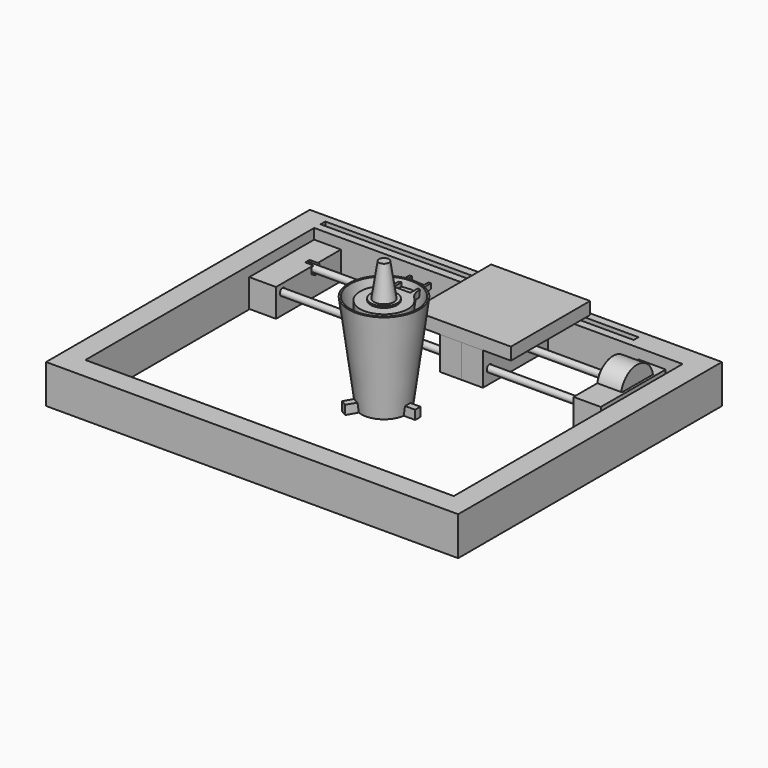
from build123d import *

# Parameters (mm, degrees)
SKETCH001_R          = 3.9
PAD_DEPTH            = 11
PAD001_DEPTH         = 13
SKETCH004_W          = 27.5
SKETCH004_H          = 20
POCKET_DEPTH         = 4.5
SKETCH005_R          = 3
HOLE_DEPTH           = 25
POCKET001_DEPTH      = 42.001
POCKET001_DEPTH_BACK = -16.001
SKETCH007_W          = 500
SKETCH007_H          = 400
SKETCH007_W_2        = 447
SKETCH007_H_2        = 347
PAD002_DEPTH         = 47
PAD003_DEPTH         = 380
PAD003_FACE11_W      = 7.3
PAD003_FACE11_H      = 380
POCKET002_DEPTH      = 5
SKETCH009_R          = 24.5
PAD004_DEPTH         = 29
SKETCH011_R          = 2.5
PAD005_DEPTH         = 0.8
SKETCH013_W          = 100
SKETCH013_H          = 34
PAD007_DEPTH         = 33
SKETCH014_R          = 24.5
POCKET003_DEPTH      = 30
SKETCH015_R          = 4.05
POCKET004_DEPTH      = 25
SKETCH012_R          = 4
PAD006_DEPTH         = 413
SKETCH016_W          = 100
SKETCH016_H          = 34
PAD008_DEPTH         = 33
SKETCH017_R          = 4.05
POCKET005_DEPTH      = 35
POCKET006_DEPTH      = 10
SKETCH019_W          = 100
SKETCH019_H          = 40
SKETCH019_R          = 4.05
PAD009_DEPTH         = 26
POCKET007_DEPTH      = 15
SKETCH021_R          = 4.05
POCKET008_DEPTH      = 30
POCKET009_DEPTH      = 6.1
SKETCH024_W          = 100
SKETCH024_H          = 40
PAD010_DEPTH         = 26
SKETCH026_R          = 4.05
POCKET010_DEPTH      = 27
SKETCH027_R          = 4.05
POCKET011_DEPTH      = 27
POCKET012_DEPTH      = 15
POCKET013_DEPTH      = 6.1
SKETCH032_W          = 120
SKETCH032_H          = 120
PAD012_DEPTH         = 15
SKETCH033_R          = 4
PAD011_DEPTH         = 356


with BuildPart() as obj1:
    # Sketch → Revolution (revolve)
    with BuildSketch(Plane.YZ):
        Polygon((0, 0), (27.5, 0), (43, 117), (40.982526, 117), (25.747483, 2), (0, 2), align=None)
    revolve(axis=Axis((0, 0, 0), (0, 0, 1)))


with BuildPart() as obj2:
    # Sketch001 → Pad (new body)
    with BuildSketch(Plane.XY):
        with BuildLine():
            ThreePointArc((-6.98582, 4.099795), (-8.1, 0), (-6.98582, -4.099795))
            Line((-6.98582, -4.099795), (-23.98582, -33.544659))
            Line((-23.98582, -33.544659), (-17.057617, -37.544659))
            Line((-17.057617, -37.544659), (-0.057617, -8.099795))
            ThreePointArc((-0.057617, -8.099795), (4.05, -7.014806), (7.043437, -4))
            Line((41.043437, -4), (7.043437, -4))
            Line((41.043437, 4), (41.043437, -4))
            Line((7.043437, 4), (41.043437, 4))
            ThreePointArc((7.043437, 4), (4.05, 7.014806), (-0.057617, 8.099795))
            Line((-17.057617, 37.544659), (-0.057617, 8.099795))
            Line((-23.98582, 33.544659), (-17.057617, 37.544659))
            Line((-6.98582, 4.099795), (-23.98582, 33.544659))
        make_face()
        Circle(SKETCH001_R, mode=Mode.SUBTRACT)
    extrude(amount=PAD_DEPTH)


with BuildPart() as obj3:
    # Sketch002 → Revolution001 (revolve)
    with BuildSketch(Plane.YZ):
        Polygon((0, 11), (9, 11), (20, 89), (28, 89), (28, 100), (16, 100), (16, 115), (12, 115), (6, 155), (0, 155), align=None)
    revolve(axis=Axis((0, 0, 0), (0, 0, 1)))


with BuildPart() as obj4:
    # Sketch003 (on CopyRevolution) → Pad001 (new body)
    with BuildSketch(Plane(origin=(0, 0, 100), x_dir=(0, -1, 0), z_dir=(0, 0, 1))):
        with BuildLine():
            Line((-55, -13), (-55, 13))
            Line((-55, 13), (-37, 13))
            ThreePointArc((-37, 13), (-28.354779, 14.789176), (-21.129846, 19.862769))
            ThreePointArc((-21.129846, -19.862769), (29, 0), (-21.129846, 19.862769))
            ThreePointArc((-21.129846, -19.862769), (-28.354779, -14.789176), (-37, -13))
            Line((-37, -13), (-55, -13))
        make_face()
    extrude(amount=PAD001_DEPTH)

    # Sketch004 (on Face8 of Pad001) → Pocket (cut)
    with BuildSketch(Plane(origin=(0, 0, 113), x_dir=(0, -1, 0), z_dir=(0, 0, 1))):
        with Locations((-41.25, 0)):
            Rectangle(SKETCH004_W, SKETCH004_H)
    extrude(amount=-POCKET_DEPTH, mode=Mode.SUBTRACT)

    # Sketch005 (on Face12 of Pocket) → Hole (cut)
    with BuildSketch(Plane(origin=(0, 0, 108.5), x_dir=(0, -1, 0), z_dir=(0, 0, 1))):
        with Locations((-45.05, 0)):
            Circle(SKETCH005_R)
    extrude(amount=-HOLE_DEPTH, mode=Mode.SUBTRACT)

    # Sketch006 (on Face8 of Hole) → Pocket001 (cut, two sides)
    with BuildSketch(Plane.YZ.offset(13)) as pocket001_sk:
        Polygon((55, 107), (49, 105), (30.5, 105), (27.5, 100), (55, 100), align=None)
    extrude(amount=-POCKET001_DEPTH, mode=Mode.SUBTRACT)
    extrude(pocket001_sk.sketch, amount=-POCKET001_DEPTH_BACK, mode=Mode.SUBTRACT)


with BuildPart() as obj5:
    # Sketch007 → Pad002 (new body)
    with BuildSketch(Plane.XY):
        Rectangle(SKETCH007_W, SKETCH007_H)
        Rectangle(SKETCH007_W_2, SKETCH007_H_2, mode=Mode.SUBTRACT)
    extrude(amount=PAD002_DEPTH)

    # Sketch008 (on Face5 of Pad002) → Pad003 (join)
    with BuildSketch(Plane.YZ.offset(-223.5)):
        Polygon((183.1, 42), (183.1, 47), (190.4, 47), (190.4, 42), (189.4, 42), (189.4, 46), (184.1, 46), (184.1, 42), align=None)
    extrude(amount=PAD003_DEPTH)

    # Pad003 Face11 → Pocket002 (cut)
    with BuildSketch(Plane(origin=(-33.5, 186.75, 47), x_dir=(0, 1, 0), z_dir=(0, 0, 1))):
        Rectangle(PAD003_FACE11_W, PAD003_FACE11_H)
    extrude(amount=-POCKET002_DEPTH, mode=Mode.SUBTRACT)


with BuildPart() as motor:
    # Sketch009 → Pad004 (new body)
    with BuildSketch(Plane.YZ):
        Circle(SKETCH009_R)
    extrude(amount=PAD004_DEPTH)

    # Sketch010 → Revolution002 (revolve)
    with BuildSketch(Plane.XY):
        Polygon((-2, 5), (-2, 2), (-3, 2), (-3, 3.8), (-13, 3.8), (-13, 0), (0, 0), (0, 5), align=None)
    revolve(axis=Axis((0, 0, 0), (1, 0, 0)))

    # Sketch011 → Pad005 (join)
    with BuildSketch(Plane.YZ):
        with BuildLine():
            ThreePointArc((-28.999999, 3.5), (-32.257305, 1.28061), (-31.383621, -2.56288))
            Line((-31.383621, -2.56288), (-15.834049, -17.024847))
            ThreePointArc((-15.834049, -17.024847), (2e-06, -23.25), (15.834052, -17.024844))
            Line((31.383621, -2.56288), (15.834052, -17.024844))
            ThreePointArc((31.383621, -2.56288), (32.257306, 1.280609), (29, 3.5))
            Line((22.985049, 3.5), (29, 3.5))
            ThreePointArc((22.985049, 3.5), (0, 23.25), (-22.985049, 3.5))
            Line((-28.999999, 3.5), (-22.985049, 3.5))
        make_face()
        with Locations((-29, 0)):
            Circle(SKETCH011_R, mode=Mode.SUBTRACT)
        with Locations((29, 0)):
            Circle(SKETCH011_R, mode=Mode.SUBTRACT)
    extrude(amount=-PAD005_DEPTH)


with BuildPart() as motor_1:
    # Body005 placement: moved
    add(motor.part.moved(Location((170, 135, 29.5))))


with BuildPart() as halterung:
    # Sketch013 (on CopyPad) → Pad007 (new body)
    with BuildSketch(Plane.YZ):
        with Locations((-10, -12)):
            Rectangle(SKETCH013_W, SKETCH013_H)
    extrude(amount=PAD007_DEPTH)

    # Sketch014 (on Face5 of Pad007) → Pocket003 (cut)
    with BuildSketch(Plane(origin=(0, 0, 0), x_dir=(0, 1, 0), z_dir=(-1, 0, 0))):
        Circle(SKETCH014_R)
    extrude(amount=-POCKET003_DEPTH, mode=Mode.SUBTRACT)

    # Sketch015 (on Face4 of Pocket003) → Pocket004 (cut)
    with BuildSketch(Plane(origin=(0, 0, 0), x_dir=(0, 1, 0), z_dir=(-1, 0, 0))):
        with Locations((-50, 4)):
            Circle(SKETCH015_R)
    extrude(amount=-POCKET004_DEPTH, mode=Mode.SUBTRACT)


with BuildPart() as halterung_1:
    # Body006 placement: moved
    add(halterung.part.moved(Location((170, 135, 29.5))))


with BuildPart() as obj6:
    # Sketch012 → Pad006 (new body)
    with BuildSketch(Plane.YZ):
        Circle(SKETCH012_R)
    extrude(amount=PAD006_DEPTH)


with BuildPart() as obj6_1:
    # Body007 placement: moved
    add(obj6.part.moved(Location((-221, 85, 25))))


with BuildPart() as body008:
    # Sketch016 → Pad008 (new body)
    with BuildSketch(Plane.YZ):
        with Locations((-10, -12)):
            Rectangle(SKETCH016_W, SKETCH016_H)
    extrude(amount=PAD008_DEPTH)

    # Sketch017 (on Face6 of Pad008) → Pocket005 (cut)
    with BuildSketch(Plane.YZ.offset(33)):
        with Locations((-50, -4)):
            Circle(SKETCH017_R)
    extrude(amount=-POCKET005_DEPTH, mode=Mode.SUBTRACT)

    # Sketch018 (on Face6 of Pad008) → Pocket006 (cut)
    with BuildSketch(Plane.YZ.offset(33)):
        Polygon((6, -3.464102), (6, 3.464102), (0, 6.928203), (-6, 3.464102), (-6, -3.464102), (0, -6.928203), align=None)
    extrude(amount=-POCKET006_DEPTH, mode=Mode.SUBTRACT)


with BuildPart() as body008_1:
    # Body008 placement: moved
    add(body008.part.moved(Location((-224, 135, 29.5))))


with BuildPart() as body009:
    # Sketch019 → Pad009 (new body)
    with BuildSketch(Plane.YZ):
        with Locations((-10, -1)):
            Rectangle(SKETCH019_W, SKETCH019_H)
        Circle(SKETCH019_R, mode=Mode.SUBTRACT)
        with Locations((-50, -4)):
            Circle(SKETCH019_R, mode=Mode.SUBTRACT)
    extrude(amount=-PAD009_DEPTH)

    # Sketch020 (on Face8 of Pad009) → Pocket007 (cut)
    with BuildSketch(Plane(origin=(-26, 0, 0), x_dir=(0, 1, 0), z_dir=(-1, 0, 0))):
        Polygon((6, -3.464102), (6, 3.464102), (0, 6.928203), (-6, 3.464102), (-6, -3.464102), (0, -6.928203), align=None)
    extrude(amount=-POCKET007_DEPTH, mode=Mode.SUBTRACT)

    # Sketch021 (on Face5 of Pocket007) → Pocket008 (cut)
    with BuildSketch(Plane(origin=(-26, 0, 0), x_dir=(0, 1, 0), z_dir=(-1, 0, 0))):
        with Locations((-50, 4)):
            Circle(SKETCH021_R)
    extrude(amount=-POCKET008_DEPTH, mode=Mode.SUBTRACT)

    # Sketch025 (on Face5 of Pocket008) → Pocket009 (cut)
    with BuildSketch(Plane(origin=(-26, 0, 0), x_dir=(0, 1, 0), z_dir=(-1, 0, 0))):
        Polygon((-56, 7.464102), (-56, 0.535898), (-50, -2.928203), (-44, 0.535898), (-44, 7.464102), (-50, 10.928203), align=None)
    extrude(amount=-POCKET009_DEPTH, mode=Mode.SUBTRACT)


with BuildPart() as body009_1:
    # Body009 placement: moved
    add(body009.part.moved(Location((60, 135, 29.5))))


with BuildPart() as body010:
    # Sketch024 → Pad010 (new body)
    with BuildSketch(Plane(origin=(-26, 0, 0), x_dir=(0, 1, 0), z_dir=(-1, 0, 0))):
        with Locations((-10, 1)):
            Rectangle(SKETCH024_W, SKETCH024_H)
    extrude(amount=PAD010_DEPTH)

    # Sketch026 (on Face5 of Pad010) → Pocket010 (cut)
    with BuildSketch(Plane.YZ.offset(-26)):
        Circle(SKETCH026_R)
    extrude(amount=-POCKET010_DEPTH, mode=Mode.SUBTRACT)

    # Sketch027 (on Face4 of Pocket010) → Pocket011 (cut)
    with BuildSketch(Plane.YZ.offset(-26)):
        with Locations((-50, -4)):
            Circle(SKETCH027_R)
    extrude(amount=-POCKET011_DEPTH, mode=Mode.SUBTRACT)

    # Sketch028 (on Face4 of Pocket011) → Pocket012 (cut)
    with BuildSketch(Plane.YZ.offset(-26)):
        Polygon((6, -3.464102), (6, 3.464102), (0, 6.928203), (-6, 3.464102), (-6, -3.464102), (0, -6.928203), align=None)
    extrude(amount=-POCKET012_DEPTH, mode=Mode.SUBTRACT)

    # Sketch029 (on Face4 of Pocket012) → Pocket013 (cut)
    with BuildSketch(Plane.YZ.offset(-26)):
        Polygon((-44, -7.464102), (-44, -0.535898), (-50, 2.928203), (-56, -0.535898), (-56, -7.464102), (-50, -10.928203), align=None)
    extrude(amount=-POCKET013_DEPTH, mode=Mode.SUBTRACT)


with BuildPart() as body010_1:
    # Body010 placement: moved
    add(body010.part.moved(Location((60, 135, 29.5))))


with BuildPart() as obj7:
    # Sketch032 (on CopyPocket) → Pad012 (new body)
    with BuildSketch(Plane(origin=(0, 0, 19), x_dir=(0, -1, 0), z_dir=(0, 0, 1))):
        Rectangle(SKETCH032_W, SKETCH032_H)
    extrude(amount=PAD012_DEPTH)


with BuildPart() as obj7_1:
    # Body011 placement: moved
    add(obj7.part.moved(Location((34, 135, 29.5))))


with BuildPart() as gewindestange:
    # Sketch033 → Pad011 (new body)
    with BuildSketch(Plane.YZ):
        Circle(SKETCH033_R)
    extrude(amount=PAD011_DEPTH)


with BuildPart() as gewindestange_1:
    # Body012 placement: moved
    add(gewindestange.part.moved(Location((-200, 135, 29.5))))


solid = Compound([obj1.part, obj2.part, obj3.part, obj4.part, obj5.part, motor_1.part, halterung_1.part, obj6_1.part, body008_1.part, body009_1.part, body010_1.part, obj7_1.part, gewindestange_1.part])
